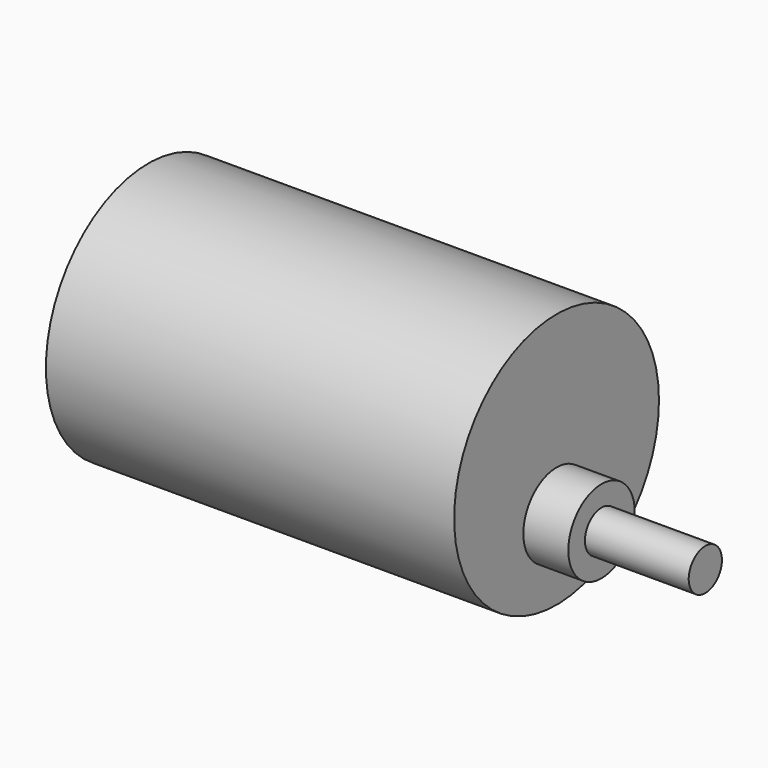
from build123d import *

# Parameters (mm, degrees)
F0_R     = 18.5
F1_DEPTH = 59
F2_R     = 6
F3_DEPTH = 6.5
F4_R     = 3
F5_DEPTH = 15


with BuildPart() as f1:
    # F0 (on Right) → F1 (new body)
    with BuildSketch(Plane.YZ):
        Circle(F0_R)
    extrude(amount=-F1_DEPTH)

    # F2 (on face) → F3 (join)
    with BuildSketch(Plane.YZ):
        with Locations((0, -7)):
            Circle(F2_R)
    extrude(amount=F3_DEPTH)

    # F4 (on face) → F5 (join)
    with BuildSketch(Plane.YZ.offset(6.5)):
        with Locations((0, -7)):
            Circle(F4_R)
    extrude(amount=F5_DEPTH)


solid = f1.part
